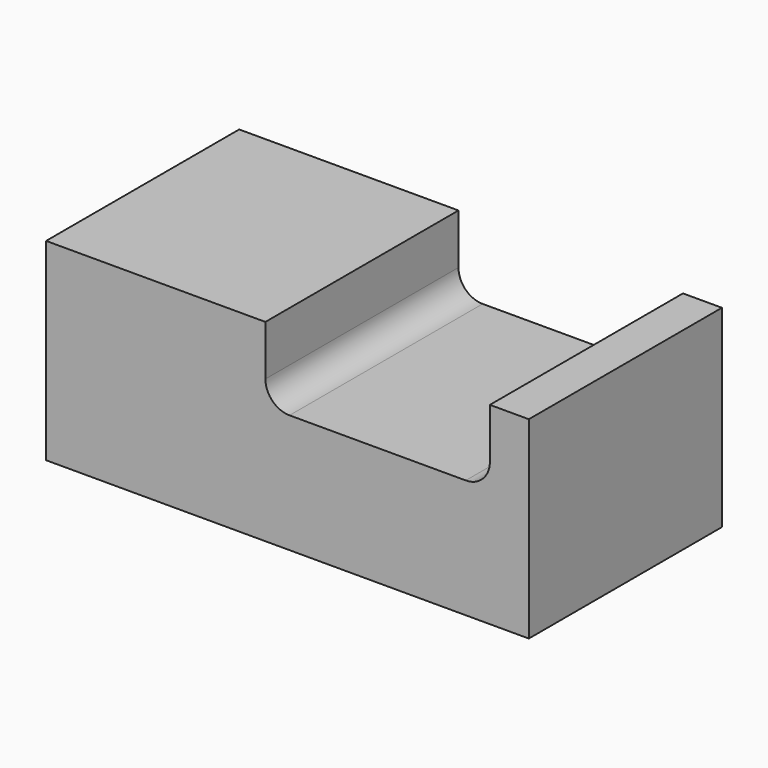
from build123d import *

# Parameters (mm, degrees)
F0_W     = 100
F0_H     = 50
F1_DEPTH = 40
F2_W     = 46.505556
F2_H     = 30.397546
F3_DEPTH = 99
F4_R     = 5


with BuildPart() as f1:
    # F0 (on Top) → F1 (new body)
    with BuildSketch(Plane.XY):
        Rectangle(F0_W, F0_H)
    extrude(amount=F1_DEPTH)

    # F2 (on face) → F3 (cut)
    with BuildSketch(Plane.XZ.offset(25)):
        with Locations((18.68185, 39.786866)):
            Rectangle(F2_W, F2_H)
    extrude(amount=-F3_DEPTH, mode=Mode.SUBTRACT)

    # F4
    f4_edges = [f1.edges().sort_by_distance(p)[0] for p in [
        (-4.570928, 0, 24.588093),
        (41.934628, 0, 24.588093),
    ]]
    fillet(f4_edges, radius=F4_R)


solid = f1.part
